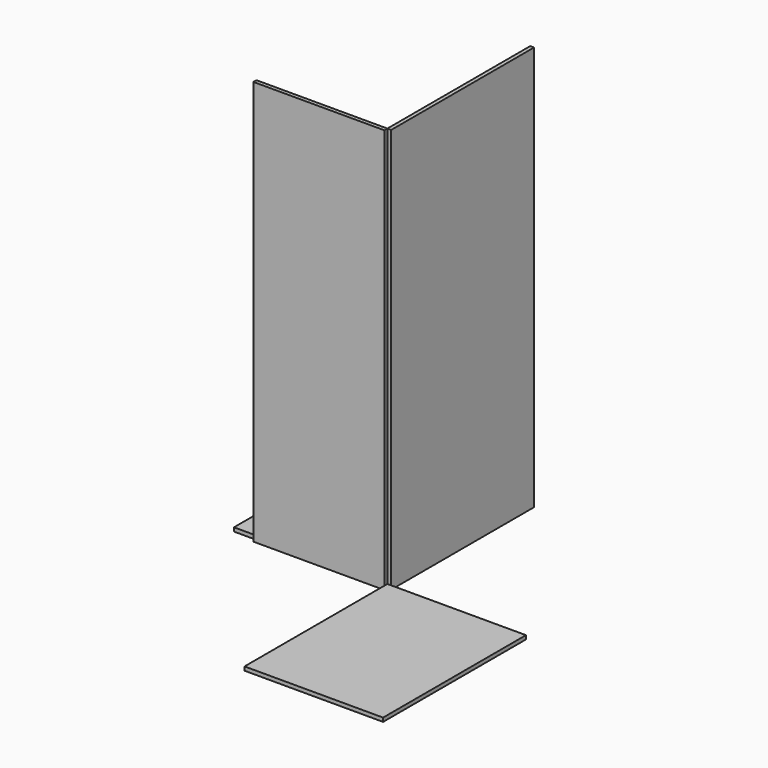
from build123d import *

# Parameters (mm, degrees)
F0_W     = 750
F0_H     = 1700
F1_DEPTH = 16
F2_W     = 550
F2_H     = 750
F3_DEPTH = 16
F4_W     = 550
F4_H     = 16
F5_DEPTH = 1700
F6_W     = 582
F6_H     = 750
F7_DEPTH = 16


with BuildPart() as f1:
    # F0 (on Right) → F1 (new body)
    with BuildSketch(Plane.YZ):
        with Locations((375, 850)):
            Rectangle(F0_W, F0_H)
    extrude(amount=F1_DEPTH)


with BuildPart() as f3:
    # F2 (on Top) → F3 (new body)
    with BuildSketch(Plane.XY):
        with Locations((-369.350799, 375)):
            Rectangle(F2_W, F2_H)
    extrude(amount=F3_DEPTH)


with BuildPart() as f5:
    # F4 (on Top) → F5 (new body)
    with BuildSketch(Plane.XY):
        with Locations((-275, -8)):
            Rectangle(F4_W, F4_H)
    extrude(amount=F5_DEPTH)


with BuildPart() as f7:
    # F6 (on Top) → F7 (new body)
    with BuildSketch(Plane.XY):
        with Locations((291, -375)):
            Rectangle(F6_W, F6_H)
    extrude(amount=F7_DEPTH)


solid = Compound([f1.part, f3.part, f5.part, f7.part])
